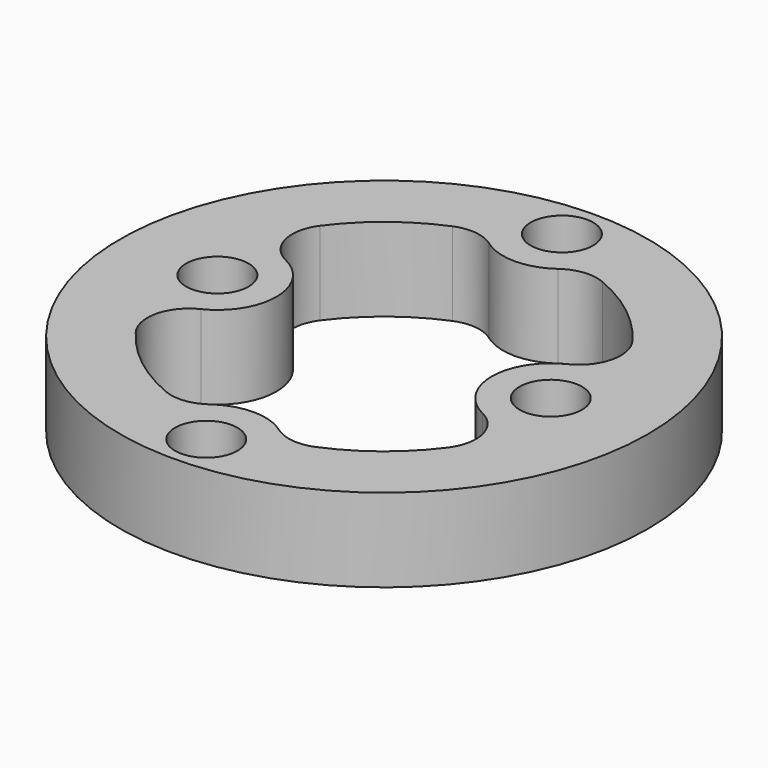
from build123d import *

# Parameters (mm, degrees)
F0_R     = 19
F0_R_2   = 2.25
F1_DEPTH = 6
F2_R     = 3


with BuildPart() as f1:
    # F0 (on Top) → F1 (new body)
    with BuildSketch(Plane.XY):
        with Locations((-65, 34.5)):
            Circle(F0_R)
        with Locations((-65, 18.5)):
            Circle(F0_R_2, mode=Mode.SUBTRACT)
        with Locations((-77, 34.5)):
            Circle(F0_R_2, mode=Mode.SUBTRACT)
        with BuildLine():
            ThreePointArc((-68.461639, 20.965675), (-74.671252, 24.418939), (-78.3791, 30.479977))
            ThreePointArc((-78.3791, 30.479977), (-72.75, 34.5), (-78.3791, 38.520023))
            ThreePointArc((-78.3791, 38.520023), (-74.671252, 44.581061), (-68.461639, 48.034325))
            ThreePointArc((-68.461639, 48.034325), (-65, 46.25), (-61.538361, 48.034325))
            ThreePointArc((-61.538361, 48.034325), (-55.328748, 44.581061), (-51.6209, 38.520023))
            ThreePointArc((-51.6209, 38.520023), (-57.25, 34.5), (-51.6209, 30.479977))
            ThreePointArc((-51.6209, 30.479977), (-55.328748, 24.418939), (-61.538361, 20.965675))
            ThreePointArc((-61.538361, 20.965675), (-65, 22.75), (-68.461639, 20.965675))
        make_face(mode=Mode.SUBTRACT)
        with Locations((-53, 34.5)):
            Circle(F0_R_2, mode=Mode.SUBTRACT)
        with Locations((-65, 50.5)):
            Circle(F0_R_2, mode=Mode.SUBTRACT)
    extrude(amount=-F1_DEPTH)

    # F2
    f2_edges = [f1.edges().sort_by_distance(p)[0] for p in [
        (-61.538361, 20.965675, -3),
        (-68.461639, 20.965675, -3),
        (-78.3791, 30.479977, -3),
        (-78.3791, 38.520023, -3),
        (-51.6209, 30.479977, -3),
        (-68.461639, 48.034325, -3),
        (-61.538361, 48.034325, -3),
        (-51.6209, 38.520023, -3),
    ]]
    fillet(f2_edges, radius=F2_R)


solid = f1.part
